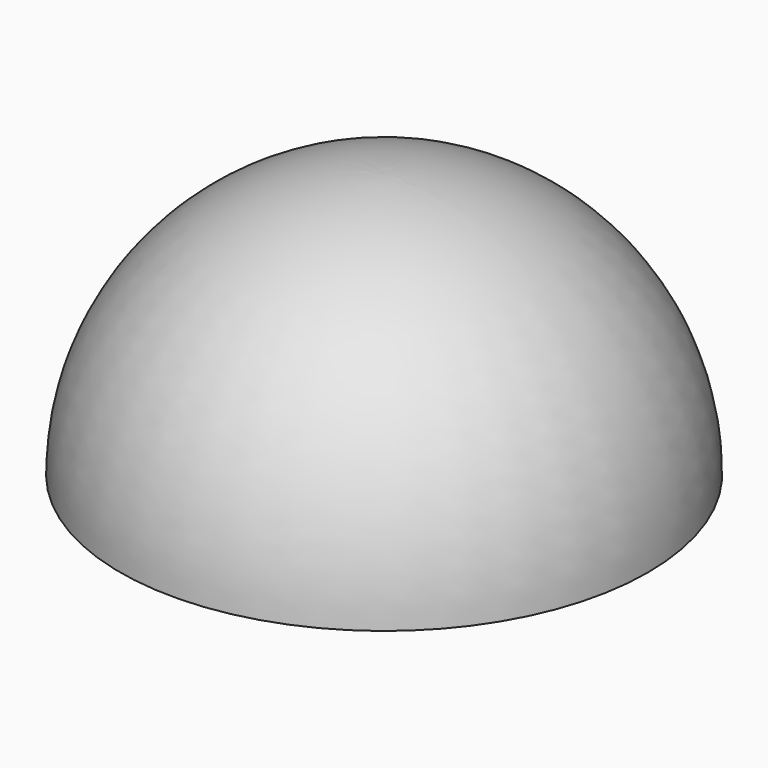
from build123d import *


with BuildPart() as f1:
    # F0 (on Front) → F1 (revolve)
    with BuildSketch(Plane.XZ):
        with BuildLine():
            ThreePointArc((21.35, 0), (15.09673, 15.09673), (0, 21.35))
            Line((0, 21.35), (0, 0))
            Line((0, 0), (21.35, 0))
        make_face()
    revolve(axis=Axis((0, 0, 10.675), (0, 0, -1)))


solid = f1.part
